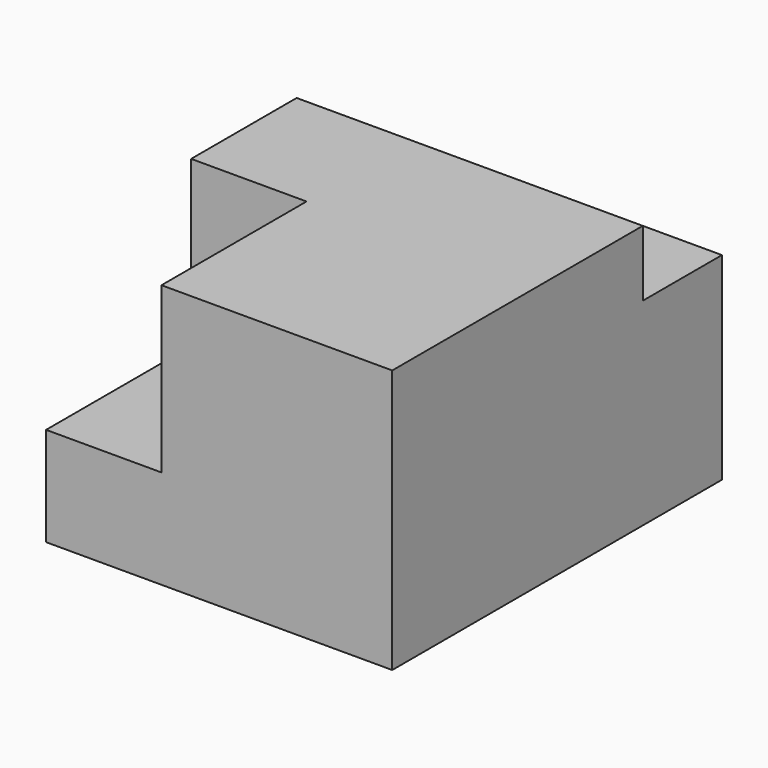
from build123d import *

# Parameters (mm, degrees)
F0_W     = 66.675
F0_H     = 79.375
F1_DEPTH = 50.8
F2_W     = 66.675
F2_H     = 19.05
F3_DEPTH = 12.7
F4_W     = 22.225
F4_H     = 34.925
F5_DEPTH = 31.75


with BuildPart() as f1:
    # F0 (on Top) → F1 (new body)
    with BuildSketch(Plane.XY):
        Rectangle(F0_W, F0_H)
    extrude(amount=F1_DEPTH)

    # F2 (on face) → F3 (cut)
    with BuildSketch(Plane.XY.offset(50.8)):
        with Locations((0, 30.1625)):
            Rectangle(F2_W, F2_H)
    extrude(amount=-F3_DEPTH, mode=Mode.SUBTRACT)

    # F4 (on face) → F5 (cut)
    with BuildSketch(Plane.XY.offset(50.8)):
        with Locations((-22.225, -22.225)):
            Rectangle(F4_W, F4_H)
    extrude(amount=-F5_DEPTH, mode=Mode.SUBTRACT)


solid = f1.part
